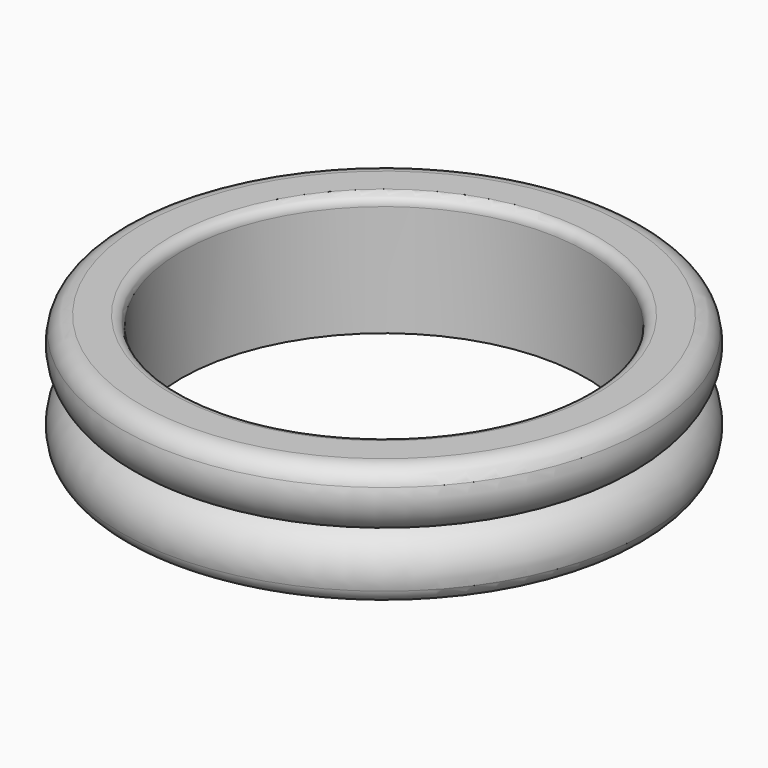
from build123d import *


with BuildPart() as f1:
    # F0 (on Front) → F1 (revolve)
    with BuildSketch(Plane.XZ):
        with BuildLine():
            Line((-1.997872, 0), (0, 0))
            Line((0, 0), (0, 3))
            Line((0, 3), (-2, 3))
            ThreePointArc((-2, 3), (-2.867851, 2.039645), (-2.965851, 0.748969))
            ThreePointArc((-2.965851, 0.748969), (-2.609824, 0.209105), (-1.997872, 0))
        make_face()
        with BuildLine():
            Line((-2, 3), (0, 3))
            Line((0, 3), (0, 5.5))
            ThreePointArc((0, 5.5), (-0.146447, 5.853553), (-0.5, 6))
            Line((-0.5, 6), (-1.997872, 6))
            ThreePointArc((-1.997872, 6), (-2.609824, 5.790895), (-2.965851, 5.251031))
            ThreePointArc((-2.965851, 5.251031), (-2.867851, 3.960355), (-2, 3))
        make_face()
    revolve(axis=Axis((10, 0, 3), (0, 0, 1)))


solid = f1.part
